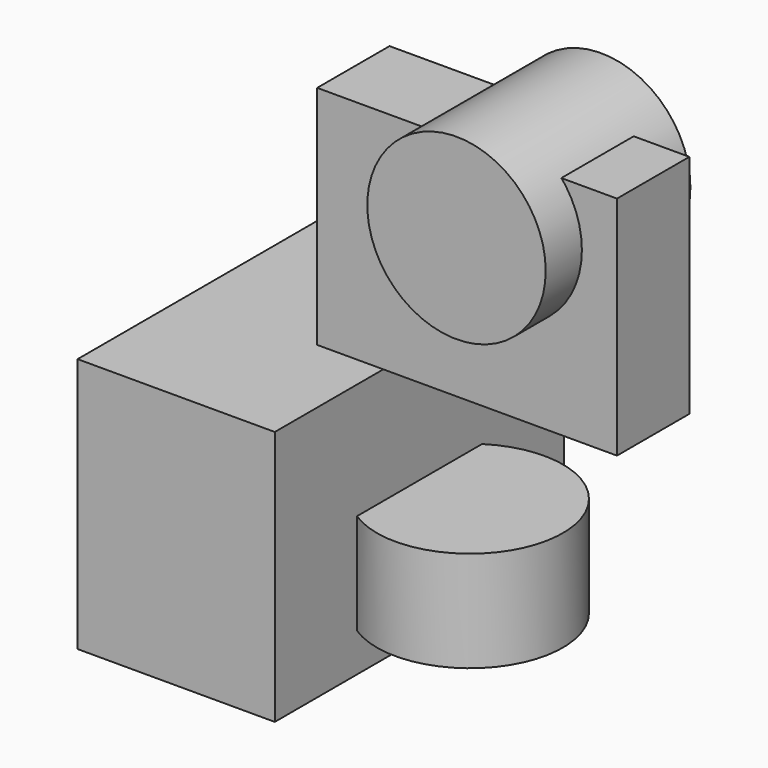
from build123d import *

# Parameters (mm, degrees)
F0_W     = 55.387489
F0_H     = 71.696088
F1_DEPTH = 50.8
F2_R     = 25.057859
F3_DEPTH = 25.4
F4_W     = 84.212516
F4_H     = 63.563347
F5_DEPTH = 12.7
F6_W     = 26.118208
F6_H     = 28.325379


with BuildPart() as f1:
    # F0 (on Front) → F1 (new body, symmetric)
    with BuildSketch(Plane.XZ):
        with Locations((-27.693744, -35.848044)):
            Rectangle(F0_W, F0_H)
    extrude(amount=F1_DEPTH, both=True)

    # F6 (on Front) → F7 (revolve)
    with BuildSketch(Plane.XZ):
        with Locations((1.103587, -46.718481)):
            Rectangle(F6_W, F6_H)
    revolve(axis=Axis((14.162691, 0, -46.718482), (0, 0, -1)))


with BuildPart() as f3:
    # F2 (on Front) → F3 (new body, symmetric)
    with BuildSketch(Plane.XZ):
        with Locations((30.716484, 47.638137)):
            Circle(F2_R)
    extrude(amount=F3_DEPTH, both=True)


with BuildPart() as f5:
    # F4 (on Front) → F5 (new body, symmetric)
    with BuildSketch(Plane.XZ):
        with Locations((23.529222, 31.781674)):
            Rectangle(F4_W, F4_H)
    extrude(amount=F5_DEPTH, both=True)


solid = Compound([f1.part, f3.part, f5.part])
